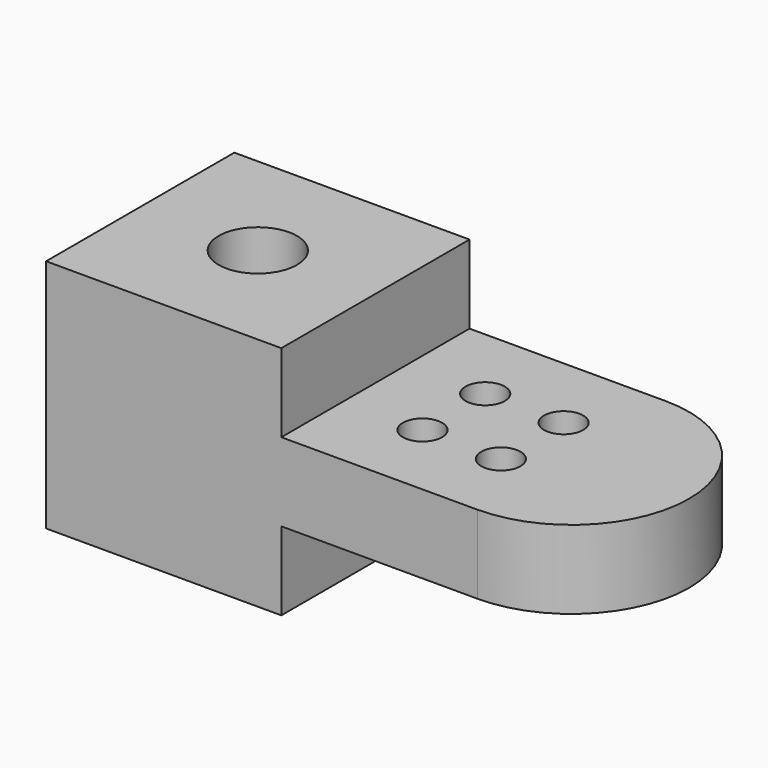
from build123d import *

# Parameters (mm, degrees)
F0_W          = 38.1
F0_H          = 38.1
F0_R          = 6.35
F0_R_2        = 3.175
F1_DEPTH      = 12.7
F2_DEPTH      = 25.4
F2_DEPTH_BACK = 12.7


with BuildPart() as f1:
    # F0 (on Top) → F1 (new body)
    with BuildSketch(Plane.XY):
        with Locations((19.05, 19.05)):
            Rectangle(F0_W, F0_H)
        with Locations((19.05, 19.05)):
            Circle(F0_R, mode=Mode.SUBTRACT)
        with BuildLine():
            Line((38.1, 38.1), (38.1, 0))
            Line((38.1, 0), (69.85, 0))
            ThreePointArc((69.85, 0), (88.9, 19.05), (69.85, 38.1))
            Line((69.85, 38.1), (38.1, 38.1))
        make_face()
        with Locations((50.8, 12.7)):
            Circle(F0_R_2, mode=Mode.SUBTRACT)
        with Locations((63.5, 12.7)):
            Circle(F0_R_2, mode=Mode.SUBTRACT)
        with Locations((50.8, 25.4)):
            Circle(F0_R_2, mode=Mode.SUBTRACT)
        with Locations((63.5, 25.4)):
            Circle(F0_R_2, mode=Mode.SUBTRACT)
    extrude(amount=F1_DEPTH)

    # F0 (on Top) → F2 (join, two sides)
    with BuildSketch(Plane.XY) as f2_sk:
        with Locations((19.05, 19.05)):
            Rectangle(F0_W, F0_H)
        with Locations((19.05, 19.05)):
            Circle(F0_R, mode=Mode.SUBTRACT)
    extrude(amount=F2_DEPTH)
    extrude(f2_sk.sketch, amount=-F2_DEPTH_BACK)


solid = f1.part
